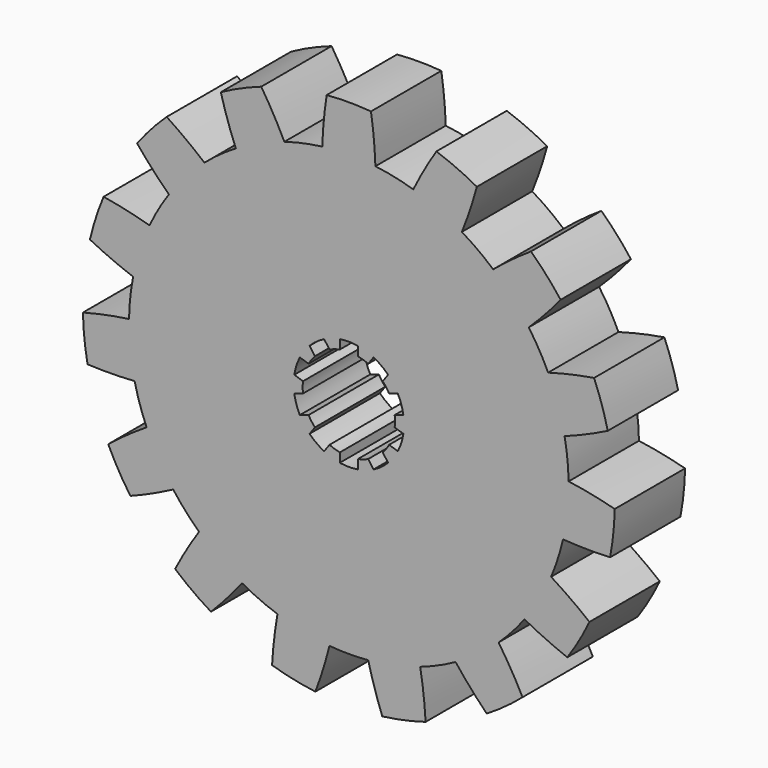
from build123d import *

# Parameters (mm, degrees)
F1_DEPTH = 20
F3_DEPTH = 20


with BuildPart() as f1:
    # F0 (on Front) → F1 (new body)
    with BuildSketch(Plane.XZ):
        with BuildLine():
            ThreePointArc((48.729363, -11.200408), (49.681325, -5.636126), (50, 0))
            ThreePointArc((50, 0), (49.998301, 0.412138), (49.993206, 0.824248))
            ThreePointArc((49.993206, 0.824248), (49.726095, 5.226423), (49.072105, 9.587936))
            ThreePointArc((49.072105, 9.587936), (47.552826, 15.45085), (45.335814, 21.087057))
            ThreePointArc((45.335814, 21.087057), (43.30127, 25), (40.929834, 28.718438))
            ThreePointArc((40.929834, 28.718438), (37.157241, 33.45653), (32.839448, 37.703722))
            ThreePointArc((32.839448, 37.703722), (29.389263, 40.45085), (25.710422, 42.883262))
            ThreePointArc((25.710422, 42.883262), (20.336832, 45.677273), (14.664844, 47.801071))
            ThreePointArc((14.664844, 47.801071), (10.395585, 48.90738), (6.045446, 49.63318))
            ThreePointArc((6.045446, 49.63318), (0, 50), (-6.045446, 49.63318))
            ThreePointArc((-6.045446, 49.63318), (-10.395585, 48.90738), (-14.664844, 47.801071))
            ThreePointArc((-14.664844, 47.801071), (-20.336832, 45.677273), (-25.710422, 42.883262))
            ThreePointArc((-25.710422, 42.883262), (-29.389263, 40.45085), (-32.839448, 37.703722))
            ThreePointArc((-32.839448, 37.703722), (-37.157241, 33.45653), (-40.929834, 28.718438))
            ThreePointArc((-40.929834, 28.718438), (-43.30127, 25), (-45.335814, 21.087057))
            ThreePointArc((-45.335814, 21.087057), (-47.552826, 15.45085), (-49.072105, 9.587936))
            ThreePointArc((-49.072105, 9.587936), (-49.726095, 5.226423), (-49.993206, 0.824248))
            ThreePointArc((-49.993206, 0.824248), (-49.726095, -5.226423), (-48.729363, -11.200408))
            ThreePointArc((-48.729363, -11.200408), (-47.552826, -15.45085), (-46.006318, -19.581081))
            ThreePointArc((-46.006318, -19.581081), (-43.30127, -25), (-39.960872, -30.0521))
            ThreePointArc((-39.960872, -30.0521), (-37.157241, -33.45653), (-34.06452, -36.600663))
            ThreePointArc((-34.06452, -36.600663), (-29.389263, -40.45085), (-24.282783, -43.70751))
            ThreePointArc((-24.282783, -43.70751), (-20.336832, -45.677273), (-16.232657, -47.291657))
            ThreePointArc((-16.232657, -47.291657), (-10.395585, -48.90738), (-4.40598, -49.805495))
            ThreePointArc((-4.40598, -49.805495), (0, -50), (4.40598, -49.805495))
            ThreePointArc((4.40598, -49.805495), (10.395585, -48.90738), (16.232657, -47.291657))
            ThreePointArc((16.232657, -47.291657), (20.336832, -45.677273), (24.282783, -43.70751))
            ThreePointArc((24.282783, -43.70751), (29.389263, -40.45085), (34.06452, -36.600663))
            ThreePointArc((34.06452, -36.600663), (37.157241, -33.45653), (39.960872, -30.0521))
            ThreePointArc((39.960872, -30.0521), (43.30127, -25), (46.006318, -19.581081))
            ThreePointArc((46.006318, -19.581081), (47.552826, -15.45085), (48.729363, -11.200408))
        make_face()
        with BuildLine():
            ThreePointArc((49.993206, 0.824248), (49.998301, 0.412138), (50, 0))
            ThreePointArc((50, 0), (49.681325, -5.636126), (48.729363, -11.200408))
            ThreePointArc((48.729363, -11.200408), (54.079586, -11.415323), (59.43312, -11.311688))
            ThreePointArc((59.43312, -11.311688), (60.168575, -6.323972), (60.486196, -1.29234))
            ThreePointArc((60.486196, -1.29234), (55.271196, -0.077907), (49.993206, 0.824248))
        make_face()
        with BuildLine():
            ThreePointArc((45.335814, 21.087057), (47.552826, 15.45085), (49.072105, 9.587936))
            ThreePointArc((49.072105, 9.587936), (54.04719, 11.567733), (58.895735, 13.839886))
            ThreePointArc((58.895735, 13.839886), (57.538919, 18.695528), (55.782531, 23.421341))
            ThreePointArc((55.782531, 23.421341), (50.524438, 22.409649), (45.335814, 21.087057))
        make_face()
        with BuildLine():
            ThreePointArc((54.731247, -25.782563), (50.461062, -22.551992), (46.006318, -19.581081))
            ThreePointArc((46.006318, -19.581081), (43.30127, -25), (39.960872, -30.0521))
            ThreePointArc((39.960872, -30.0521), (44.76113, -32.424566), (49.693979, -34.507369))
            ThreePointArc((49.693979, -34.507369), (52.394537, -30.25), (54.731247, -25.782563))
        make_face()
        with BuildLine():
            ThreePointArc((32.839448, 37.703722), (37.157241, 33.45653), (40.929834, 28.718438))
            ThreePointArc((40.929834, 28.718438), (44.669544, 32.550622), (48.174742, 36.598419))
            ThreePointArc((48.174742, 36.598419), (44.960262, 40.482402), (41.43356, 44.085259))
            ThreePointArc((41.43356, 44.085259), (37.041545, 41.022373), (32.839448, 37.703722))
        make_face()
        with BuildLine():
            ThreePointArc((39.512769, -45.814747), (36.925753, -41.126633), (34.06452, -36.600663))
            ThreePointArc((34.06452, -36.600663), (29.389263, -40.45085), (24.282783, -43.70751))
            ThreePointArc((24.282783, -43.70751), (27.703068, -47.827306), (31.362297, -51.736412))
            ThreePointArc((31.362297, -51.736412), (35.561008, -48.945528), (39.512769, -45.814747))
        make_face()
        with BuildLine():
            ThreePointArc((14.664844, 47.801071), (20.336832, 45.677273), (25.710422, 42.883262))
            ThreePointArc((25.710422, 42.883262), (27.568128, 47.905214), (29.123899, 53.028752))
            ThreePointArc((29.123899, 53.028752), (24.607567, 55.2695), (19.920351, 57.126435))
            ThreePointArc((19.920351, 57.126435), (17.153833, 52.541957), (14.664844, 47.801071))
        make_face()
        with BuildLine():
            ThreePointArc((17.462174, -57.925145), (17.005645, -52.590106), (16.232657, -47.291657))
            ThreePointArc((16.232657, -47.291657), (10.395585, -48.90738), (4.40598, -49.805495))
            ThreePointArc((4.40598, -49.805495), (5.854894, -54.960271), (7.607789, -60.01976))
            ThreePointArc((7.607789, -60.01976), (12.578657, -59.17793), (17.462174, -57.925145))
        make_face()
        with BuildLine():
            ThreePointArc((-6.045446, 49.63318), (0, 50), (6.045446, 49.63318))
            ThreePointArc((6.045446, 49.63318), (5.699933, 54.976558), (5.037269, 60.289932))
            ThreePointArc((5.037269, 60.289932), (0, 60.5), (-5.037269, 60.289932))
            ThreePointArc((-5.037269, 60.289932), (-5.699933, 54.976558), (-6.045446, 49.63318))
        make_face()
        with BuildLine():
            ThreePointArc((-7.607789, -60.01976), (-5.854894, -54.960271), (-4.40598, -49.805495))
            ThreePointArc((-4.40598, -49.805495), (-10.395585, -48.90738), (-16.232657, -47.291657))
            ThreePointArc((-16.232657, -47.291657), (-17.005645, -52.590106), (-17.462174, -57.925145))
            ThreePointArc((-17.462174, -57.925145), (-12.578657, -59.17793), (-7.607789, -60.01976))
        make_face()
        with BuildLine():
            ThreePointArc((-25.710422, 42.883262), (-20.336832, 45.677273), (-14.664844, 47.801071))
            ThreePointArc((-14.664844, 47.801071), (-17.153833, 52.541957), (-19.920351, 57.126435))
            ThreePointArc((-19.920351, 57.126435), (-24.607567, 55.2695), (-29.123899, 53.028752))
            ThreePointArc((-29.123899, 53.028752), (-27.568128, 47.905214), (-25.710422, 42.883262))
        make_face()
        with BuildLine():
            ThreePointArc((-31.362297, -51.736412), (-27.703068, -47.827306), (-24.282783, -43.70751))
            ThreePointArc((-24.282783, -43.70751), (-29.389263, -40.45085), (-34.06452, -36.600663))
            ThreePointArc((-34.06452, -36.600663), (-36.925753, -41.126633), (-39.512769, -45.814747))
            ThreePointArc((-39.512769, -45.814747), (-35.561008, -48.945528), (-31.362297, -51.736412))
        make_face()
        with BuildLine():
            ThreePointArc((-40.929834, 28.718438), (-37.157241, 33.45653), (-32.839448, 37.703722))
            ThreePointArc((-32.839448, 37.703722), (-37.041545, 41.022373), (-41.43356, 44.085259))
            ThreePointArc((-41.43356, 44.085259), (-44.960262, 40.482402), (-48.174742, 36.598419))
            ThreePointArc((-48.174742, 36.598419), (-44.669544, 32.550622), (-40.929834, 28.718438))
        make_face()
        with BuildLine():
            ThreePointArc((-49.693979, -34.507369), (-44.76113, -32.424566), (-39.960872, -30.0521))
            ThreePointArc((-39.960872, -30.0521), (-43.30127, -25), (-46.006318, -19.581081))
            ThreePointArc((-46.006318, -19.581081), (-50.461062, -22.551992), (-54.731247, -25.782563))
            ThreePointArc((-54.731247, -25.782563), (-52.394537, -30.25), (-49.693979, -34.507369))
        make_face()
        with BuildLine():
            ThreePointArc((-49.072105, 9.587936), (-47.552826, 15.45085), (-45.335814, 21.087057))
            ThreePointArc((-45.335814, 21.087057), (-50.524438, 22.409649), (-55.782531, 23.421341))
            ThreePointArc((-55.782531, 23.421341), (-57.538919, 18.695528), (-58.895735, 13.839886))
            ThreePointArc((-58.895735, 13.839886), (-54.04719, 11.567733), (-49.072105, 9.587936))
        make_face()
        with BuildLine():
            ThreePointArc((-59.43312, -11.311688), (-54.079586, -11.415323), (-48.729363, -11.200408))
            ThreePointArc((-48.729363, -11.200408), (-49.726095, -5.226423), (-49.993206, 0.824248))
            ThreePointArc((-49.993206, 0.824248), (-55.271196, -0.077907), (-60.486196, -1.29234))
            ThreePointArc((-60.486196, -1.29234), (-60.168575, -6.323972), (-59.43312, -11.311688))
        make_face()
    extrude(amount=-F1_DEPTH)

    # F2 (on Front) → F3 (cut)
    with BuildSketch(Plane.XZ):
        with BuildLine():
            ThreePointArc((10.427405, -1.232572), (10.481835, -0.617354), (10.5, 0))
            ThreePointArc((10.5, 0), (10.481835, 0.617354), (10.427405, 1.232572))
            ThreePointArc((10.427405, 1.232572), (9.986093, 3.244678), (9.160435, 5.131903))
            ThreePointArc((9.160435, 5.131903), (8.494678, 6.171745), (7.71146, 7.126246))
            ThreePointArc((7.71146, 7.126246), (6.171745, 8.494678), (4.39449, 9.536166))
            ThreePointArc((4.39449, 9.536166), (3.244678, 9.986093), (2.05, 10.297937))
            ThreePointArc((2.05, 10.297937), (0, 10.5), (-2.05, 10.297937))
            ThreePointArc((-2.05, 10.297937), (-3.244678, 9.986093), (-4.39449, 9.536166))
            ThreePointArc((-4.39449, 9.536166), (-6.171745, 8.494678), (-7.71146, 7.126246))
            ThreePointArc((-7.71146, 7.126246), (-8.494678, 6.171745), (-9.160435, 5.131903))
            ThreePointArc((-9.160435, 5.131903), (-9.986093, 3.244678), (-10.427405, 1.232572))
            ThreePointArc((-10.427405, 1.232572), (-10.5, 0), (-10.427405, -1.232572))
            ThreePointArc((-10.427405, -1.232572), (-9.986093, -3.244678), (-9.160435, -5.131903))
            ThreePointArc((-9.160435, -5.131903), (-8.494678, -6.171745), (-7.71146, -7.126246))
            ThreePointArc((-7.71146, -7.126246), (-6.171745, -8.494678), (-4.39449, -9.536166))
            ThreePointArc((-4.39449, -9.536166), (-3.244678, -9.986093), (-2.05, -10.297937))
            ThreePointArc((-2.05, -10.297937), (0, -10.5), (2.05, -10.297937))
            ThreePointArc((2.05, -10.297937), (3.244678, -9.986093), (4.39449, -9.536166))
            ThreePointArc((4.39449, -9.536166), (6.171745, -8.494678), (7.71146, -7.126246))
            ThreePointArc((7.71146, -7.126246), (8.494678, -6.171745), (9.160435, -5.131903))
            ThreePointArc((9.160435, -5.131903), (9.986093, -3.244678), (10.427405, -1.232572))
        make_face()
        with BuildLine():
            ThreePointArc((9.160435, 5.131903), (9.986093, 3.244678), (10.427405, 1.232572))
            Line((10.427405, 1.232572), (12.408932, 1.876409))
            ThreePointArc((12.408932, 1.876409), (11.935759, 3.878163), (11.141962, 5.775741))
            Line((11.141962, 5.775741), (9.160435, 5.131903))
        make_face()
        with BuildLine():
            Line((12.408932, -1.876409), (10.427405, -1.232572))
            ThreePointArc((10.427405, -1.232572), (9.986093, -3.244678), (9.160435, -5.131903))
            Line((9.160435, -5.131903), (11.141962, -5.775741))
            ThreePointArc((11.141962, -5.775741), (11.935759, -3.878163), (12.408932, -1.876409))
        make_face()
        with BuildLine():
            ThreePointArc((4.39449, 9.536166), (6.171745, 8.494678), (7.71146, 7.126246))
            Line((7.71146, 7.126246), (8.936111, 8.811834))
            ThreePointArc((8.936111, 8.811834), (7.376705, 10.153163), (5.619142, 11.221753))
            Line((5.619142, 11.221753), (4.39449, 9.536166))
        make_face()
        with BuildLine():
            Line((8.936111, -8.811834), (7.71146, -7.126246))
            ThreePointArc((7.71146, -7.126246), (6.171745, -8.494678), (4.39449, -9.536166))
            Line((4.39449, -9.536166), (5.619142, -11.221753))
            ThreePointArc((5.619142, -11.221753), (7.376705, -10.153163), (8.936111, -8.811834))
        make_face()
        with BuildLine():
            ThreePointArc((-2.05, 10.297937), (0, 10.5), (2.05, 10.297937))
            Line((2.05, 10.297937), (2.05, 12.381438))
            ThreePointArc((2.05, 12.381438), (0, 12.55), (-2.05, 12.381438))
            Line((-2.05, 12.381438), (-2.05, 10.297937))
        make_face()
        with BuildLine():
            Line((2.05, -12.381438), (2.05, -10.297937))
            ThreePointArc((2.05, -10.297937), (0, -10.5), (-2.05, -10.297937))
            Line((-2.05, -10.297937), (-2.05, -12.381438))
            ThreePointArc((-2.05, -12.381438), (0, -12.55), (2.05, -12.381438))
        make_face()
        with BuildLine():
            ThreePointArc((-7.71146, 7.126246), (-6.171745, 8.494678), (-4.39449, 9.536166))
            Line((-4.39449, 9.536166), (-5.619142, 11.221753))
            ThreePointArc((-5.619142, 11.221753), (-7.376705, 10.153163), (-8.936111, 8.811834))
            Line((-8.936111, 8.811834), (-7.71146, 7.126246))
        make_face()
        with BuildLine():
            Line((-5.619142, -11.221753), (-4.39449, -9.536166))
            ThreePointArc((-4.39449, -9.536166), (-6.171745, -8.494678), (-7.71146, -7.126246))
            Line((-7.71146, -7.126246), (-8.936111, -8.811834))
            ThreePointArc((-8.936111, -8.811834), (-7.376705, -10.153163), (-5.619142, -11.221753))
        make_face()
        with BuildLine():
            ThreePointArc((-10.427405, 1.232572), (-9.986093, 3.244678), (-9.160435, 5.131903))
            Line((-9.160435, 5.131903), (-11.141962, 5.775741))
            ThreePointArc((-11.141962, 5.775741), (-11.935759, 3.878163), (-12.408932, 1.876409))
            Line((-12.408932, 1.876409), (-10.427405, 1.232572))
        make_face()
        with BuildLine():
            Line((-11.141962, -5.775741), (-9.160435, -5.131903))
            ThreePointArc((-9.160435, -5.131903), (-9.986093, -3.244678), (-10.427405, -1.232572))
            Line((-10.427405, -1.232572), (-12.408932, -1.876409))
            ThreePointArc((-12.408932, -1.876409), (-11.935759, -3.878163), (-11.141962, -5.775741))
        make_face()
    extrude(amount=-F3_DEPTH, mode=Mode.SUBTRACT)


solid = f1.part
